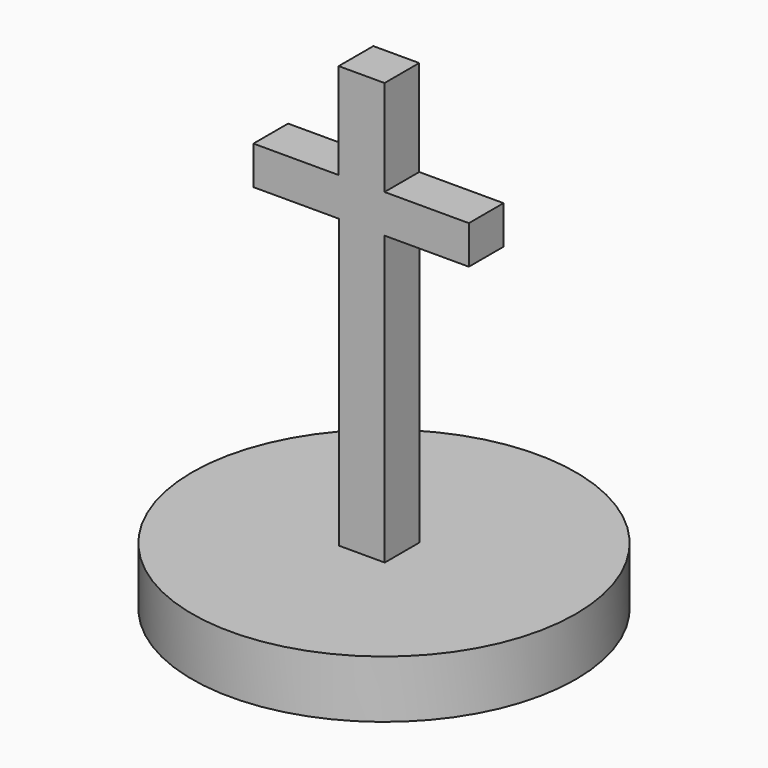
from build123d import *

# Parameters (mm, degrees)
F0_R     = 12.7
F1_DEPTH = 3.81
F2_W     = 3.0322148232
F2_H     = 2.8683111304
F3_DEPTH = 19.05
F4_W     = 5.6596440263
F4_H     = 2.8683111304
F4_W_2   = 3.0322148232
F4_W_3   = 5.5680392543
F5_DEPTH = 2.54
F6_W     = 3.0350781744
F6_H     = 2.8683111304
F7_DEPTH = 6.35


with BuildPart() as f1:
    # F0 (on Top) → F1 (new body)
    with BuildSketch(Plane.XY):
        Circle(F0_R)
    extrude(amount=F1_DEPTH)

    # F2 (on face) → F3 (join)
    with BuildSketch(Plane.XY.offset(3.81)):
        with Locations((-0.1229271875, -0.2458557137)):
            Rectangle(F2_W, F2_H)
    extrude(amount=F3_DEPTH)

    # F4 (on face) → F5 (join)
    with BuildSketch(Plane.XY.offset(22.86)):
        with Locations((-4.4688566122, -0.2458557137)):
            Rectangle(F4_W, F4_H)
        with Locations((-0.1229271875, -0.2458557137)):
            Rectangle(F4_W_2, F4_H)
        with Locations((4.1771998513, -0.2458557137)):
            Rectangle(F4_W_3, F4_H)
    extrude(amount=F5_DEPTH)

    # F6 (on face) → F7 (join)
    with BuildSketch(Plane.XY.offset(25.4)):
        with Locations((-0.1373158884, -0.2458557137)):
            Rectangle(F6_W, F6_H)
    extrude(amount=F7_DEPTH)


solid = f1.part
